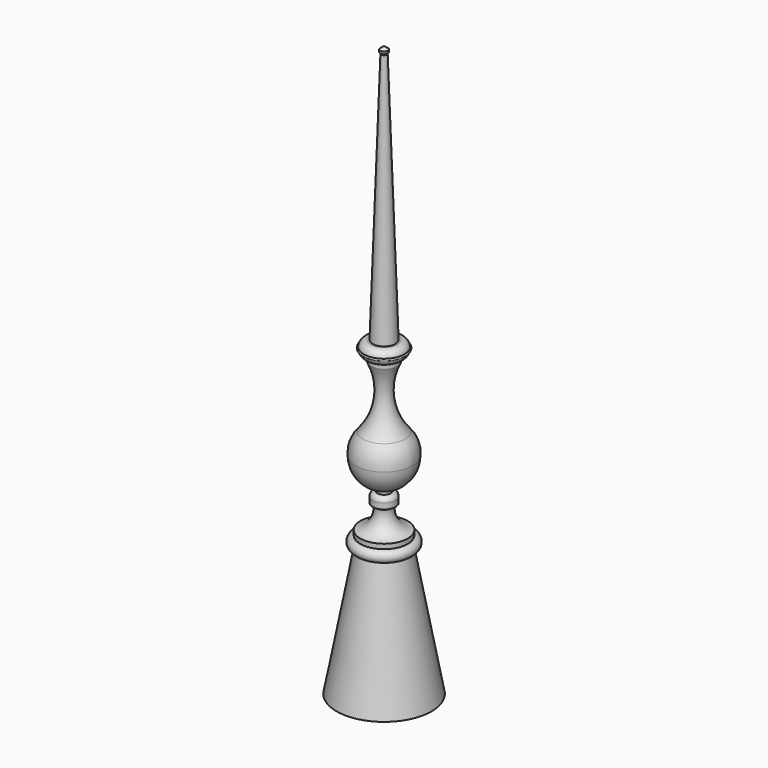
from build123d import *

# Parameters (mm, degrees)
F1_W = 14
F1_H = 5


with BuildPart() as f2:
    # F1 (on Front) → F2 (revolve)
    with BuildSketch(Plane.XZ):
        Polygon((0, 135), (0, 0), (50, 0), (25, 135), align=None)
        with BuildLine():
            Line((0, 147), (0, 135))
            Line((0, 135), (25, 135))
            ThreePointArc((25, 135), (31, 141), (25, 147))
            Line((25, 147), (0, 147))
        make_face()
        with BuildLine():
            Line((0, 175), (0, 147))
            Line((0, 147), (25, 147))
            Line((25, 147), (25, 152))
            ThreePointArc((25, 152), (12.299581, 160.230143), (9, 175))
            Line((9, 175), (0, 175))
        make_face()
        with BuildLine():
            Line((0, 188), (0, 175))
            Line((0, 175), (9, 175))
            Line((9, 175), (12, 177))
            Line((12, 177), (12, 183))
            ThreePointArc((12, 183), (10.535534, 186.535534), (7, 188))
            Line((7, 188), (0, 188))
        make_face()
        with BuildLine():
            Line((0, 191), (0, 188))
            Line((0, 188), (7, 188))
            Line((7, 188), (7, 191))
            Line((7, 191), (7, 191.828096))
            ThreePointArc((7, 191.828096), (3.524406, 191.207743), (0, 191))
        make_face()
        with BuildLine():
            Line((0, 221), (0, 191))
            ThreePointArc((0, 191), (3.524406, 191.207743), (7, 191.828096))
            ThreePointArc((7, 191.828096), (23.558438, 202.425824), (30, 221))
            Line((30, 221), (0, 221))
        make_face()
        with BuildLine():
            Line((0, 308), (0, 221))
            Line((0, 221), (30, 221))
            ThreePointArc((30, 221), (28.508262, 232.912095), (22, 243))
            ThreePointArc((22, 243), (8.349552, 274.312253), (14, 308))
            Line((14, 308), (0, 308))
        make_face()
        with Locations((7, 310.5)):
            Rectangle(F1_W, F1_H)
        with BuildLine():
            Line((0, 328), (0, 313))
            Line((0, 313), (14, 313))
            ThreePointArc((14, 313), (18.937104, 314.854205), (21.433034, 319.5))
            ThreePointArc((21.433034, 319.5), (22.433034, 320.5), (21.433034, 321.5))
            ThreePointArc((21.433034, 321.5), (18.937104, 326.145795), (14, 328))
            Line((14, 328), (12, 328))
            Line((12, 328), (0, 328))
        make_face()
        Polygon((0, 600), (0, 328), (12, 328), (3, 593), (4, 594.5), (4, 597), align=None)
    revolve(axis=Axis((0, 0, 300), (0, 0, 1)))


solid = f2.part
